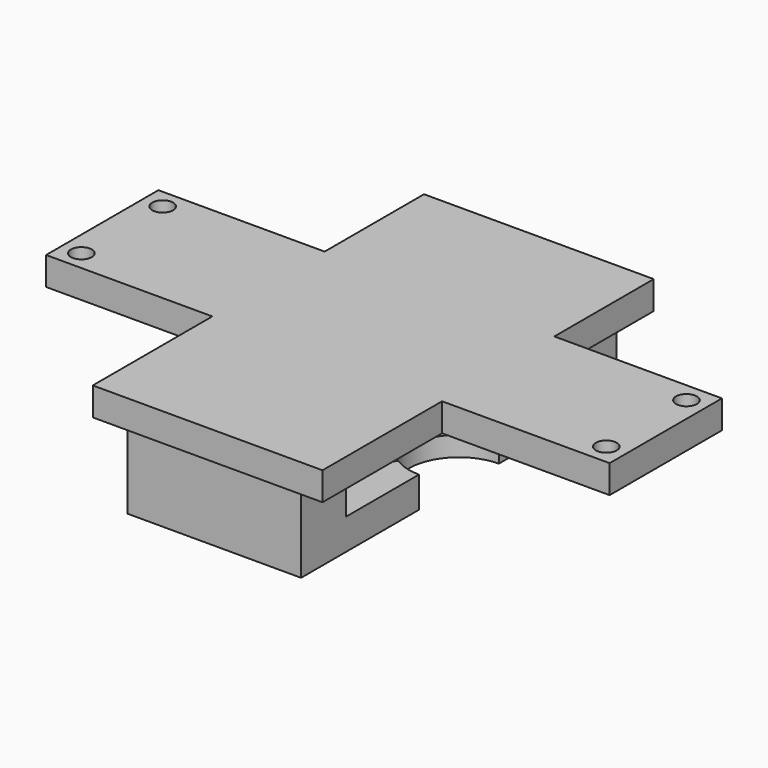
from build123d import *

# Parameters (mm, degrees)
F0_W      = 40.765519
F0_H      = 73.471674
F1_DEPTH  = 5
F2_R      = 3.5
F3_DEPTH  = 14
F4_W      = 35
F4_H      = 50.010137
F5_DEPTH  = 8.5
F6_W      = 100
F6_H      = 24.910029
F7_DEPTH  = 5
F8_R      = 1.85
F9_DEPTH  = 25.4
F10_R     = 12.94909
F11_DEPTH = 2


with BuildPart() as f1:
    # F0 (on Top) → F1 (new body)
    with BuildSketch(Plane.XY):
        with Locations((4.975075, 16.320152)):
            Rectangle(F0_W, F0_H)
    extrude(amount=-F1_DEPTH)

    # F2 (on face) → F3 (join)
    with BuildSketch(Plane(origin=(0, 0, -5), x_dir=(1, 0, 0), z_dir=(0, 0, -1))):
        with BuildLine():
            Line((20.405405, 18.970378), (-10.405405, 18.970378))
            Line((-10.405405, 18.970378), (-10.405405, -7.227108))
            ThreePointArc((-10.405405, -7.227108), (-1.55183, -16.080683), (-10.405405, -24.934258))
            Line((-10.405405, -24.934258), (-10.405405, -51.029622))
            Line((-10.405405, -51.029622), (20.405405, -51.029622))
            Line((20.405405, -51.029622), (20.405405, -24.883203))
            ThreePointArc((20.405405, -24.883203), (11.551825, -16.029622), (20.405405, -7.176042))
            Line((20.405405, -7.176042), (20.405405, 18.970378))
        make_face()
        with Locations((5, -16.029622)):
            Circle(F2_R, mode=Mode.SUBTRACT)
    extrude(amount=F3_DEPTH)

    # F4 (on face) → F5 (cut)
    with BuildSketch(Plane(origin=(0, 0, -5), x_dir=(1, 0, 0), z_dir=(0, 0, -1))):
        with Locations((2.905405, -15.991903)):
            Rectangle(F4_W, F4_H)
    extrude(amount=F5_DEPTH, mode=Mode.SUBTRACT)

    # F6 (on face) → F7 (join)
    with BuildSketch(Plane(origin=(0, 0, -5), x_dir=(1, 0, 0), z_dir=(0, 0, -1))):
        with Locations((5.092296, -18.559826)):
            Rectangle(F6_W, F6_H)
    extrude(amount=-F7_DEPTH)

    # F8 (on face) → F9 (cut)
    with BuildSketch(Plane.XY):
        with Locations((-41.387634, 27.575926)):
            Circle(F8_R)
        with Locations((51.599746, 27.514396)):
            Circle(F8_R)
        with Locations((-41.413683, 9.564399)):
            Circle(F8_R)
        with Locations((51.624972, 9.70294)):
            Circle(F8_R)
    extrude(amount=-F9_DEPTH, mode=Mode.SUBTRACT)

    # F10 (on face) → F11 (cut)
    with BuildSketch(Plane.XY.offset(-13.5)):
        with Locations((5, 16.029622)):
            Circle(F10_R)
    extrude(amount=-F11_DEPTH, mode=Mode.SUBTRACT)


solid = f1.part
